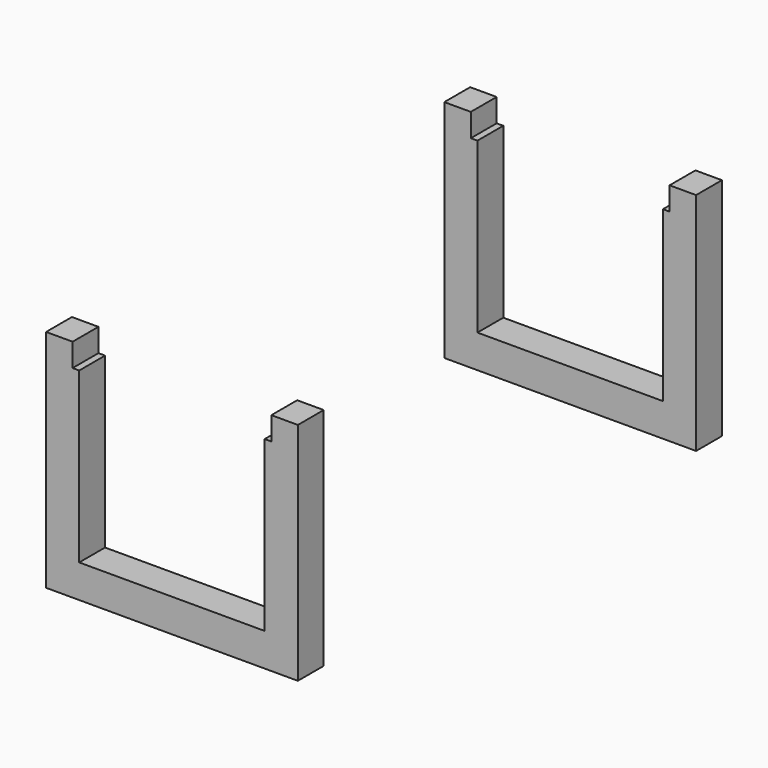
from build123d import *

# Parameters (mm, degrees)
F0_W     = 177.8
F0_H     = 63.5
F1_DEPTH = 61.9125


with BuildPart() as f1:
    # F0 (on Front) → F1 (new body)
    with BuildSketch(Plane.XZ):
        Polygon((-42.3927338243, 0), (-93.1927338243, 0), (-93.1927338243, -431.8), (-29.6927338243, -431.8), (-29.6927338243, -368.3), (-29.6927338243, -44.45), (-42.3927338243, -44.45), align=None)
        with Locations((59.2072661757, -400.05)):
            Rectangle(F0_W, F0_H)
        with Locations((237.0072661757, -400.05)):
            Rectangle(F0_W, F0_H)
        Polygon((325.9072661757, -368.3), (325.9072661757, -431.8), (389.4072661757, -431.8), (389.4072661757, 0), (338.6072661757, 0), (338.6072661757, -44.45), (325.9072661757, -44.45), align=None)
    extrude(amount=F1_DEPTH)


with BuildPart() as f5_1:
    # F5: instance of F1
    add(f1.part.mirror(Plane(origin=(0, 446.0875, 0), x_dir=(-1, 0, 0), z_dir=(0, 1, 0))))


solid = Compound([f1.part, f5_1.part])
